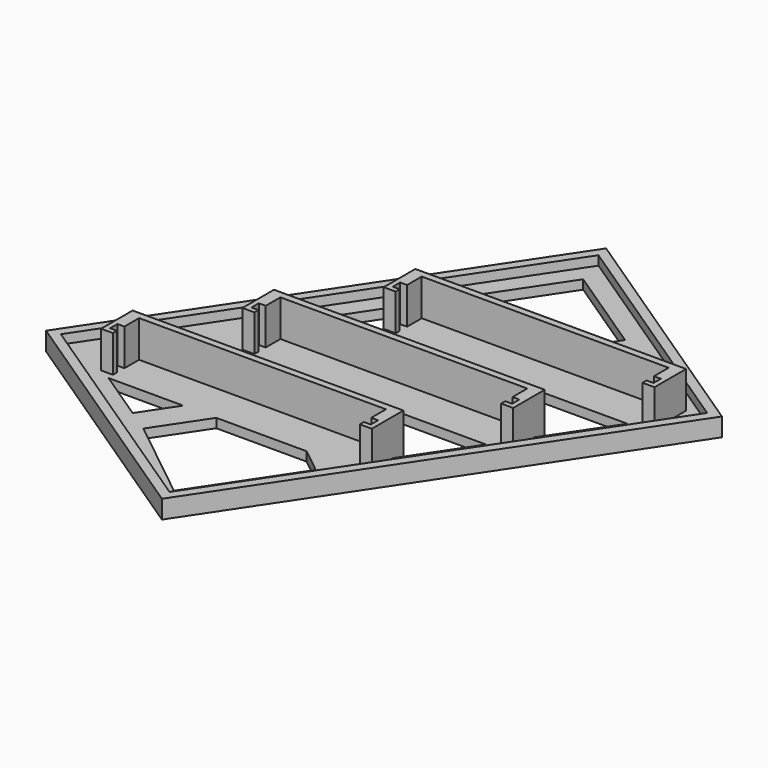
from build123d import *

# Parameters (mm, degrees)
PAD002_DEPTH = 4
PAD001_DEPTH = 10
SKETCH_W     = 59
SKETCH_H     = 10
PAD_DEPTH    = 2
PAD003_DEPTH = 2


with BuildPart() as pad002:
    # Sketch002 → Pad002 (new body)
    with BuildSketch(Plane.XY):
        Polygon((13.415017, 35.19739), (67.498286, -0.858122), (12.028266, -84.063152), (-42.055003, -48.007639), align=None)
        Polygon((13.969717, 32.423889), (-39.281502, -47.452939), (11.473566, -81.289651), (64.724785, -1.412822), align=None, mode=Mode.SUBTRACT)
    extrude(amount=PAD002_DEPTH)


with BuildPart() as pad001:
    # Sketch001 → Pad001 (new body)
    with BuildSketch(Plane.XY):
        Polygon((0, 0), (0, -8.6), (2.6, -8.6), (2.6, -7.5), (1.1, -7.5), (1.1, -5.5), (2.6, -5.5), (2.6, -1.5), (56.4, -1.5), (56.4, -5.5), (57.9, -5.5), (57.9, -7.5), (56.4, -7.5), (56.4, -8.6), (59, -8.6), (59, 0), align=None)
    extrude(amount=PAD001_DEPTH)


with BuildPart() as pad:
    # Sketch → Pad (new body)
    with BuildSketch(Plane.XY):
        with Locations((29.5, -5)):
            Rectangle(SKETCH_W, SKETCH_H)
    extrude(amount=PAD_DEPTH)


with BuildPart() as relay002:
    # Fusion001 base: copy of Pad
    add(pad.part)

    # Fusion001: union Pad001
    add(pad001.part)


with BuildPart() as relay002_1:
    # Fusion001 placement: moved
    add(relay002.part.moved(Location((-14, -21, 0))))


with BuildPart() as relay001:
    # Fusion base: copy of Pad
    add(pad.part)

    # Fusion: union Pad001
    add(pad001.part)


with BuildPart() as relay003:
    # Fusion002 base: copy of Pad
    add(pad.part)

    # Fusion002: union Pad001
    add(pad001.part)


with BuildPart() as relay003_1:
    # Fusion002 placement: moved
    add(relay003.part.moved(Location((-28, -42, 0))))


with BuildPart() as fusion003:
    # Sketch003 → Pad003 (new body)
    with BuildSketch(Plane.XY):
        Polygon((13.415017, 35.19739), (-42.055003, -48.007639), (12.028266, -84.063152), (67.498286, -0.858122), align=None)
        Polygon((15.079117, 26.876888), (34.632299, 13.841433), (20.579895, -7.237174), (1.026713, 5.79828), align=None, mode=Mode.SUBTRACT)
        Polygon((39.624601, 10.513232), (59.177783, -2.522223), (45.125378, -23.60083), (25.572196, -10.565375), align=None, mode=Mode.SUBTRACT)
        Polygon((-2.301489, 0.805979), (-16.353893, -20.272629), (3.199289, -33.308083), (17.251693, -12.229476), align=None, mode=Mode.SUBTRACT)
        Polygon((22.243995, -15.557677), (8.19159, -36.636284), (27.744772, -49.671739), (41.797177, -28.593132), align=None, mode=Mode.SUBTRACT)
        Polygon((0.059977, -38.426311), (-13.992428, -59.504919), (-26.473182, -51.184416), (-12.420777, -30.105808), align=None, mode=Mode.SUBTRACT)
        Polygon((5.054661, -41.750937), (-8.997744, -62.829544), (9.379179, -77.476683), (23.431584, -56.398076), align=None, mode=Mode.SUBTRACT)
    extrude(amount=PAD003_DEPTH)

    # Fusion003: union Pad002, Relay002, Relay001, Relay003
    add(pad002.part)
    add(relay002_1.part)
    add(relay001.part)
    add(relay003_1.part)


solid = fusion003.part
